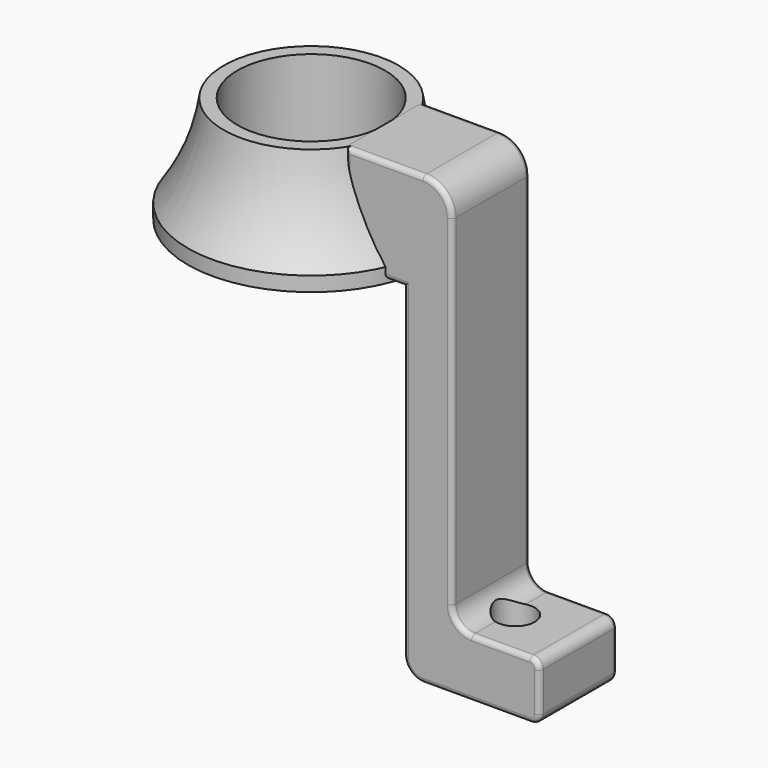
from build123d import *

# Parameters (mm, degrees)
PAD_DEPTH    = 5
FILLET_R     = 3
FILLET001_R  = 2
FILLET002_R  = 1
FILLET003_R  = 0.5
FILLET004_R  = 0.5
SKETCH_R     = 2
POCKET_DEPTH = 46.001


with BuildPart() as revolution:
    # Sketch002 → Revolution (revolve)
    with BuildSketch(Plane.XZ):
        with BuildLine():
            Line((7.6, 11), (7.6, 0))
            Line((7.6, 0), (12.7, 0))
            Line((12.7, 0), (12.7, 1.5))
            ThreePointArc((9, 11), (10.290513, 6.032095), (12.7, 1.5))
            Line((7.6, 11), (9, 11))
        make_face()
    revolve(axis=Axis((0, 0, 0), (0, 0, 1)))


with BuildPart() as pocket:
    # Sketch003 → Pad (new body, symmetric)
    with BuildSketch(Plane.XZ):
        Polygon((7.5, 11), (18.5, 11), (18.5, -29), (27.5, -29), (27.5, -35), (13.5, -35), (13.5, 0.352804), (7.5, 0.352804), align=None)
    extrude(amount=PAD_DEPTH, both=True)

    # Fillet
    fillet_edges = [pocket.edges().sort_by_distance(p)[0] for p in [
        (18.5, 0, 11),
    ]]
    fillet(fillet_edges, radius=FILLET_R)

    # Fillet001
    fillet001_edges = [pocket.edges().sort_by_distance(p)[0] for p in [
        (13.5, 0, -35),
        (18.5, 0, -29),
    ]]
    fillet(fillet001_edges, radius=FILLET001_R)

    # Fillet002
    fillet002_edges = [pocket.edges().sort_by_distance(p)[0] for p in [
        (27.5, 0, -29),
        (27.5, 0, -35),
    ]]
    fillet(fillet002_edges, radius=FILLET002_R)

    # Fillet003
    fillet003_edges = [pocket.edges().sort_by_distance(p)[0] for p in [
        (23.5, -5, -29),
        (27.207107, -5, -29.292893),
        (19.085786, -5, -28.414214),
        (27.5, -5, -32),
        (18.5, -5, -9.5),
        (27.207107, -5, -34.707107),
        (17.62132, -5, 10.12132),
        (21, -5, -35),
        (11.5, -5, 11),
        (14.085786, -5, -34.414214),
        (7.5, -5, 5.676402),
        (13.5, -5, -16.323598),
        (10.5, -5, 0.352804),
    ]]
    fillet(fillet003_edges, radius=FILLET003_R)

    # Fillet004
    fillet004_edges = [pocket.edges().sort_by_distance(p)[0] for p in [
        (23.5, 5, -29),
        (27.207107, 5, -29.292893),
        (19.085786, 5, -28.414214),
        (27.5, 5, -32),
        (18.5, 5, -9.5),
        (27.207107, 5, -34.707107),
        (17.62132, 5, 10.12132),
        (21, 5, -35),
        (11.5, 5, 11),
        (14.085786, 5, -34.414214),
        (7.5, 5, 5.676402),
        (13.5, 5, -16.323598),
        (10.5, 5, 0.352804),
    ]]
    fillet(fillet004_edges, radius=FILLET004_R)

    # Sketch → Pocket (cut, through all)
    with BuildSketch(Plane(origin=(0, 0, -35), x_dir=(1, 0, 0), z_dir=(0, 0, -1))):
        with Locations((21, 0)):
            Circle(SKETCH_R)
    extrude(amount=-POCKET_DEPTH, mode=Mode.SUBTRACT)


solid = Compound([revolution.part, pocket.part])
